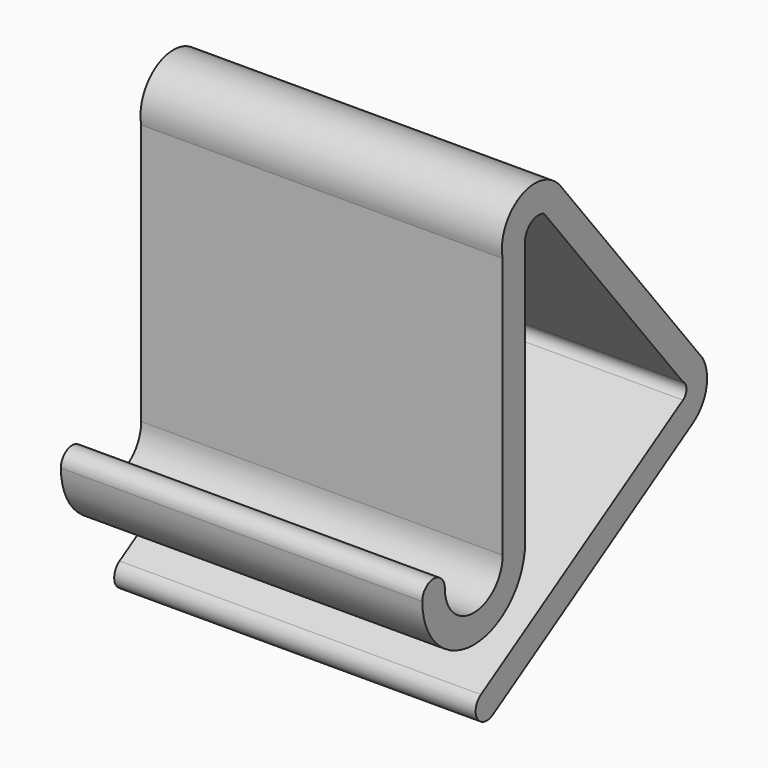
from build123d import *

# Parameters (mm, degrees)
F1_DEPTH = 45


with BuildPart() as f1:
    # F0 (on Right) → F1 (new body)
    with BuildSketch(Plane.YZ):
        with BuildLine():
            Line((-23.265957, 45.034048), (-23.265957, 12.518347))
            ThreePointArc((-23.265957, 12.518347), (-27.765957, 8.018347), (-32.265957, 12.518347))
            ThreePointArc((-32.265957, 12.518347), (-34.015957, 14.304246), (-35.765957, 12.518347))
            ThreePointArc((-35.765957, 12.518347), (-27.765957, 4.518347), (-19.765957, 12.518347))
            Line((-19.765957, 12.518347), (-19.765957, 45.034048))
            ThreePointArc((-19.765957, 45.034048), (-18.992609, 47.061919), (-16.842203, 47.355324))
            Line((-16.842203, 47.355324), (4.792009, 20.106038))
            ThreePointArc((4.792009, 20.106038), (5.347423, 19.108046), (4.792009, 18.110054))
            Line((4.792009, 18.110054), (-26.645305, -1.386014))
            ThreePointArc((-26.645305, -1.386014), (-27.210218, -3.795552), (-24.800679, -4.360465))
            Line((-24.800679, -4.360465), (6.310104, 14.933103))
            ThreePointArc((6.310104, 14.933103), (8.440768, 17.929424), (7.793478, 21.548635))
            Line((7.793478, 21.548635), (-14.241941, 49.303259))
            ThreePointArc((-14.241941, 49.303259), (-20.447977, 50.749395), (-23.265957, 45.034048))
        make_face()
    extrude(amount=F1_DEPTH)


solid = f1.part
